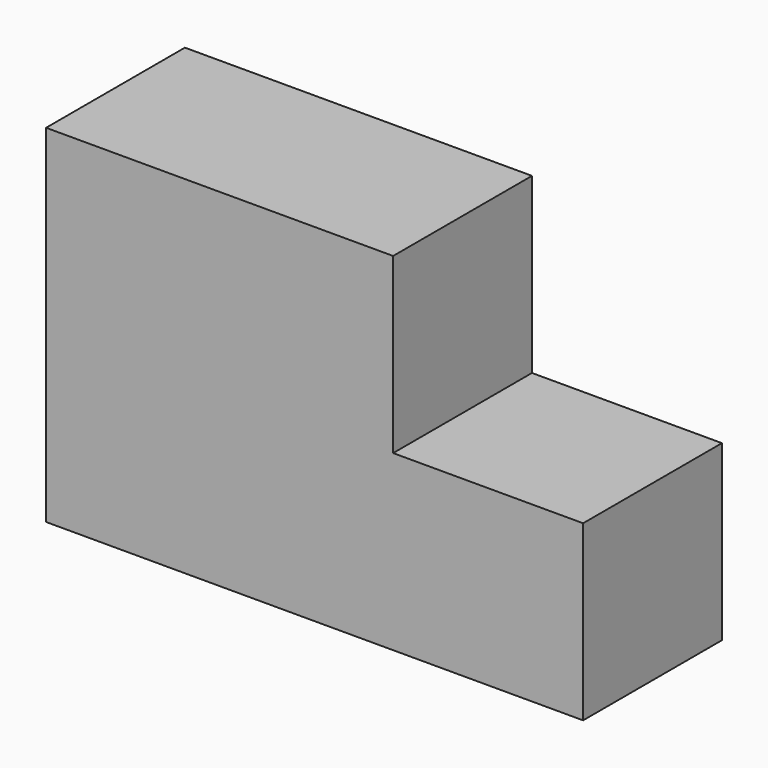
from build123d import *

# Parameters (mm, degrees)
F0_W     = 25.4
F0_H     = 25.4
F1_DEPTH = 25.4
F0_W_2   = 27.75857
F2_DEPTH = 25.4


with BuildPart() as f1:
    # F0 (on Front) → F1 (new body)
    with BuildSketch(Plane.XZ):
        with Locations((-12.7, -12.7)):
            Rectangle(F0_W, F0_H)
        Polygon((25.4, 0), (0, 0), (0, -25.4), (25.445359, -25.4), (25.445359, 0), align=None)
    extrude(amount=F1_DEPTH)

    # F0 (on Front) → F2 (join)
    with BuildSketch(Plane.XZ):
        with Locations((-12.7, 12.7)):
            Rectangle(F0_W, F0_H)
        with Locations((12.7, 12.7)):
            Rectangle(F0_W, F0_H)
        with Locations((39.324644, -12.7)):
            Rectangle(F0_W_2, F0_H)
    extrude(amount=F2_DEPTH)


solid = f1.part
